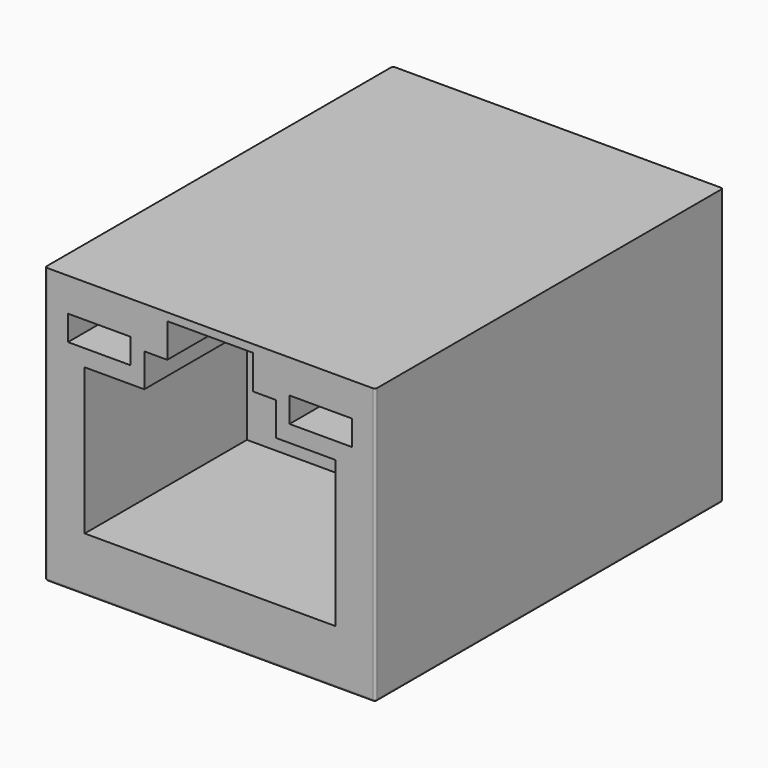
from build123d import *

# Parameters (mm, degrees)
BOX038_W               = 4.1
BOX038_H               = 5
BOX038_DEPTH           = 2
BOX038_PLACEMENT_ANGLE = 20
BOX037_W               = 2.85
BOX037_H               = 2.4
BOX037_DEPTH           = 1.5
BOX036_W               = 12
BOX036_H               = 1
BOX036_DEPTH           = 5
SKETCH022_W            = 3
SKETCH022_H            = 1.2
EXTRUDE005_DEPTH       = 10.8
BOX007_W               = 15.8
BOX007_H               = 20.8
BOX007_DEPTH           = 13.2
FILLET015_R            = 0.1


with BuildPart() as cube015:
    # Box038 → Box038 (new body)
    with BuildSketch(Plane.XY):
        with Locations((2.05, 2.5)):
            Rectangle(BOX038_W, BOX038_H)
    extrude(amount=BOX038_DEPTH)


with BuildPart() as cube015_1:
    # Box038 placement: moved
    add(cube015.part.moved(Location((-2.05, -1, 11.2))).rotate(Axis((-2.05, -1, 11.2), (-1, 0, 0)), BOX038_PLACEMENT_ANGLE))


with BuildPart() as cube014:
    # Box037 → Box037 (new body)
    with BuildSketch(Plane(origin=(3.15, 8.4, 8.2), x_dir=(1, 0, 0), z_dir=(0, 0, 1))):
        with Locations((1.425, 1.2)):
            Rectangle(BOX037_W, BOX037_H)
    extrude(amount=BOX037_DEPTH)


with BuildPart() as cube046:
    # Clone base: copy of Cube014
    add(cube014.part)


with BuildPart() as cube046_1:
    # Clone placement: moved
    add(cube046.part.moved(Location((-9.15, 0, 0))))


with BuildPart() as fusion024:
    # Box036 → Box036 (new body)
    with BuildSketch(Plane(origin=(-6, 9.8, 2.7), x_dir=(1, 0, 0), z_dir=(0, 0, 1))):
        with Locations((6, 0.5)):
            Rectangle(BOX036_W, BOX036_H)
    extrude(amount=BOX036_DEPTH)

    # Fusion024: union Cube014, Cube046
    add(cube014.part)
    add(cube046_1.part)


with BuildPart() as fusion025:
    # Sketch022 → Extrude005 (new body)
    with BuildSketch(Plane.XZ):
        Polygon((-6, 9.7), (-6, 2.7), (6, 2.7), (6, 9.7), (3.15, 9.7), (3.15, 11.3), (2.05, 11.3), (2.05, 12.5), (-2.05, 12.5), (-2.05, 11.3), (-3.15, 11.3), (-3.15, 9.7), align=None)
        with Locations((-5.3, 11.1)):
            Rectangle(SKETCH022_W, SKETCH022_H)
        with Locations((5.3, 11.1)):
            Rectangle(SKETCH022_W, SKETCH022_H)
    extrude(amount=-EXTRUDE005_DEPTH)

    # Cut001: cut Fusion024
    add(fusion024.part, mode=Mode.SUBTRACT)

    # Fusion025: union Cube015
    add(cube015_1.part)


with BuildPart() as fusion025_1:
    # Fusion025 placement: moved
    add(fusion025.part.moved(Location((0, 0.1, 0.1))))


with BuildPart() as body003:
    # Box007 → Box007 (new body)
    with BuildSketch(Plane(origin=(-7.9, 0.2, 0.2), x_dir=(1, 0, 0), z_dir=(0, 0, 1))):
        with Locations((7.9, 10.4)):
            Rectangle(BOX007_W, BOX007_H)
    extrude(amount=BOX007_DEPTH)

    # Fillet015
    fillet015_edges = [body003.edges().sort_by_distance(p)[0] for p in [
        (-7.9, 0.2, 6.8),
        (-7.9, 21, 6.8),
        (-7.9, 10.6, 0.2),
        (7.9, 0.2, 6.8),
        (7.9, 21, 6.8),
        (7.9, 10.6, 0.2),
        (0, 0.2, 0.2),
        (0, 21, 0.2),
    ]]
    fillet(fillet015_edges, radius=FILLET015_R)

    # Cut008: cut Fusion025
    add(fusion025_1.part, mode=Mode.SUBTRACT)


solid = body003.part
